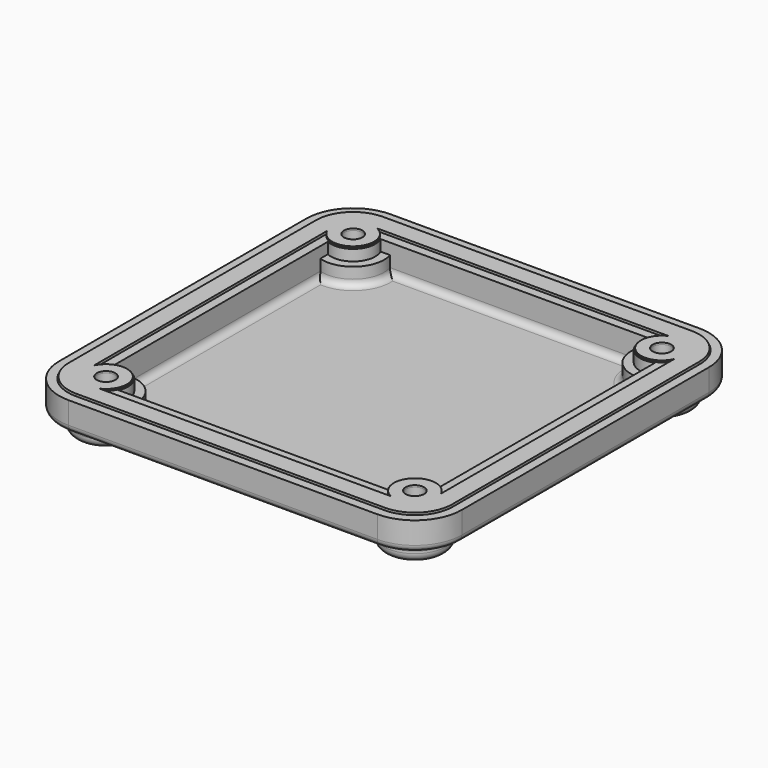
from build123d import *

# Parameters (mm, degrees)
F0_R           = 2.1
F1_DEPTH       = 6.5
F3_DEPTH       = 3.5
F4_R           = 2
F5_R           = 2.1
F6_DEPTH       = 4
F8_DEPTH       = 4
F9_R           = 1.5
F10_R          = 3.875
F11_DEPTH      = 6
F12_R          = 2
F14_DEPTH      = 3.3
F14_DEPTH_BACK = 0.4
F15_R          = 1.8
F16_R          = 4.75
F16_R_2        = 2.1
F17_DEPTH      = 0.4


with BuildPart() as f1:
    # F0 (on Top) → F1 (new body)
    with BuildSketch(Plane.XY):
        with BuildLine():
            Line((-35, -45.625), (35, -45.625))
            ThreePointArc((35, -45.625), (42.5130095501, -42.5130095501), (45.625, -35))
            Line((45.625, -35), (45.625, 35))
            ThreePointArc((45.625, 35), (42.5130095501, 42.5130095501), (35, 45.625))
            Line((35, 45.625), (-35, 45.625))
            ThreePointArc((-35, 45.625), (-42.5130095501, 42.5130095501), (-45.625, 35))
            Line((-45.625, 35), (-45.625, -35))
            ThreePointArc((-45.625, -35), (-42.5130095501, -42.5130095501), (-35, -45.625))
        make_face()
        with Locations((-35, -35)):
            Circle(F0_R, mode=Mode.SUBTRACT)
        with Locations((35, -35)):
            Circle(F0_R, mode=Mode.SUBTRACT)
        with Locations((-35, 35)):
            Circle(F0_R, mode=Mode.SUBTRACT)
        with BuildLine():
            ThreePointArc((-37.1, 30.4623794782), (-31.4644660941, 31.4644660941), (-30.4623794782, 37.1))
            Line((-30.4623794782, 37.1), (30.4623794782, 37.1))
            ThreePointArc((30.4623794782, 37.1), (31.4644660941, 31.4644660941), (37.1, 30.4623794782))
            Line((37.1, 30.4623794782), (37.1, -30.4623794782))
            ThreePointArc((37.1, -30.4623794782), (31.4644660941, -31.4644660941), (30.4623794782, -37.1))
            Line((30.4623794782, -37.1), (-30.4623794782, -37.1))
            ThreePointArc((-30.4623794782, -37.1), (-31.4644660941, -31.4644660941), (-37.1, -30.4623794782))
            Line((-37.1, -30.4623794782), (-37.1, 30.4623794782))
        make_face(mode=Mode.SUBTRACT)
        with Locations((35, 35)):
            Circle(F0_R, mode=Mode.SUBTRACT)
    extrude(amount=F1_DEPTH)

    # F2 (on face) → F3 (cut)
    with BuildSketch(Plane.XY.offset(6.5)):
        with BuildLine():
            Line((43.625, -35), (43.625, 35))
            ThreePointArc((43.625, 35), (41.0987959877, 41.0987959877), (35, 43.625))
            Line((35, 43.625), (-35, 43.625))
            ThreePointArc((-35, 43.625), (-41.0987959877, 41.0987959877), (-43.625, 35))
            Line((-43.625, 35), (-43.625, -35))
            ThreePointArc((-43.625, -35), (-41.0987959877, -41.0987959877), (-35, -43.625))
            Line((-35, -43.625), (35, -43.625))
            ThreePointArc((35, -43.625), (41.0987959877, -41.0987959877), (43.625, -35))
        make_face()
        with BuildLine():
            ThreePointArc((35, 39.125), (37.9168154724, 37.9168154724), (39.125, 35))
            Line((39.125, 35), (39.125, -35))
            ThreePointArc((39.125, -35), (37.9168154724, -37.9168154724), (35, -39.125))
            Line((35, -39.125), (-35, -39.125))
            ThreePointArc((-35, -39.125), (-37.9168154724, -37.9168154724), (-39.125, -35))
            Line((-39.125, -35), (-39.125, 35))
            ThreePointArc((-39.125, 35), (-37.9168154724, 37.9168154724), (-35, 39.125))
            Line((-35, 39.125), (35, 39.125))
        make_face(mode=Mode.SUBTRACT)
    extrude(amount=-F3_DEPTH, mode=Mode.SUBTRACT)

    # F4
    f4_edges = [f1.edges().sort_by_distance(p)[0] for p in [
        (43.625, 0, 3),
        (41.098796, 41.098796, 3),
        (0, 43.625, 3),
        (-41.098796, 41.098796, 3),
        (-43.625, 0, 3),
        (-41.098796, -41.098796, 3),
        (0, -43.625, 3),
        (41.098796, -41.098796, 3),
        (37.916815, 37.916815, 3),
        (39.125, 0, 3),
        (37.916815, -37.916815, 3),
        (0, -39.125, 3),
        (-37.916815, -37.916815, 3),
        (-39.125, 0, 3),
        (-37.916815, 37.916815, 3),
        (0, 39.125, 3),
    ]]
    fillet(f4_edges, radius=F4_R)

    # F5 (on face) → F6 (join)
    with BuildSketch(Plane(origin=(0, 0, 0), x_dir=(1, 0, 0), z_dir=(0, 0, -1))):
        with BuildLine():
            Line((30, 40), (-30, 40))
            ThreePointArc((-30, 40), (-40, 40), (-40, 30))
            Line((-40, 30), (-40, -30))
            ThreePointArc((-40, -30), (-40, -40), (-30, -40))
            Line((-30, -40), (30, -40))
            ThreePointArc((30, -40), (40, -40), (40, -30))
            Line((40, -30), (40, 30))
            ThreePointArc((40, 30), (40, 40), (30, 40))
        make_face()
        with Locations((-35, -35)):
            Circle(F5_R, mode=Mode.SUBTRACT)
        with Locations((35, -35)):
            Circle(F5_R, mode=Mode.SUBTRACT)
        with Locations((-35, 35)):
            Circle(F5_R, mode=Mode.SUBTRACT)
        with Locations((35, 35)):
            Circle(F5_R, mode=Mode.SUBTRACT)
    extrude(amount=F6_DEPTH)

    # F7 (on face) → F8 (join)
    with BuildSketch(Plane.XY):
        with BuildLine():
            Line((-30.4623794782, -37.1), (-28.3224255901, -37.1))
            ThreePointArc((-28.3224255901, -37.1), (-30.0502525317, -30.0502525317), (-37.1, -28.3224255901))
            Line((-37.1, -28.3224255901), (-37.1, -30.4623794782))
            ThreePointArc((-37.1, -30.4623794782), (-31.4644660941, -31.4644660941), (-30.4623794782, -37.1))
        make_face()
        with BuildLine():
            Line((37.1, -30.4623794782), (37.1, -28.3224255901))
            ThreePointArc((37.1, -28.3224255901), (30.0502525317, -30.0502525317), (28.3224255901, -37.1))
            Line((28.3224255901, -37.1), (30.4623794782, -37.1))
            ThreePointArc((30.4623794782, -37.1), (31.4644660941, -31.4644660941), (37.1, -30.4623794782))
        make_face()
        with BuildLine():
            Line((30.4623794782, 37.1), (28.3224255901, 37.1))
            ThreePointArc((28.3224255901, 37.1), (30.0502525317, 30.0502525317), (37.1, 28.3224255901))
            Line((37.1, 28.3224255901), (37.1, 30.4623794782))
            ThreePointArc((37.1, 30.4623794782), (31.4644660941, 31.4644660941), (30.4623794782, 37.1))
        make_face()
        with BuildLine():
            Line((-37.1, 30.4623794782), (-37.1, 28.3224255901))
            ThreePointArc((-37.1, 28.3224255901), (-30.0502525317, 30.0502525317), (-28.3224255901, 37.1))
            Line((-28.3224255901, 37.1), (-30.4623794782, 37.1))
            ThreePointArc((-30.4623794782, 37.1), (-31.4644660941, 31.4644660941), (-37.1, 30.4623794782))
        make_face()
    extrude(amount=F8_DEPTH)

    # F9
    f9_edges = [f1.edges().sort_by_distance(p)[0] for p in [
        (0, -37.1, 0),
        (30.050253, -30.050253, 0),
        (37.1, 0, 0),
        (30.050253, 30.050253, 0),
        (0, 37.1, 0),
        (-30.050253, 30.050253, 0),
        (-37.1, 0, 0),
        (-30.050253, -30.050253, 0),
        (0, -40, 0),
        (-40, -40, 0),
        (-40, 0, 0),
        (-40, 40, 0),
        (0, 40, 0),
        (40, 40, 0),
        (40, 0, 0),
        (40, -40, 0),
        (-42.51301, -42.51301, 0),
    ]]
    fillet(f9_edges, radius=F9_R)

    # F10 (on face) → F11 (cut)
    with BuildSketch(Plane(origin=(0, 0, -4), x_dir=(1, 0, 0), z_dir=(0, 0, -1))):
        with Locations((-35, 35)):
            Circle(F10_R)
        with Locations((-35, -35)):
            Circle(F10_R)
        with Locations((35, -35)):
            Circle(F10_R)
        with Locations((35, 35)):
            Circle(F10_R)
    extrude(amount=-F11_DEPTH, mode=Mode.SUBTRACT)

    # F12
    f12_edges = [f1.edges().sort_by_distance(p)[0] for p in [
        (-40, 0, -4),
        (-40, -40, -4),
        (0, -40, -4),
        (40, -40, -4),
        (40, 40, -4),
        (40, 0, -4),
        (0, 40, -4),
        (-40, 40, -4),
    ]]
    fillet(f12_edges, radius=F12_R)


with BuildPart() as f14:
    # F13 (on face) → F14 (new body, two sides)
    with BuildSketch(Plane.XY.offset(6.5)) as f14_sk:
        with BuildLine():
            Line((-43.425, 35), (-43.425, -35))
            ThreePointArc((-43.425, -35), (-40.9573746315, -40.9573746315), (-35, -43.425))
            Line((-35, -43.425), (35, -43.425))
            ThreePointArc((35, -43.425), (40.9573746315, -40.9573746315), (43.425, -35))
            Line((43.425, -35), (43.425, 35))
            ThreePointArc((43.425, 35), (40.9573746315, 40.9573746315), (35, 43.425))
            Line((35, 43.425), (-35, 43.425))
            ThreePointArc((-35, 43.425), (-40.9573746315, 40.9573746315), (-43.425, 35))
        make_face()
        with BuildLine():
            ThreePointArc((-35, -39.325), (-38.0582368286, -38.0582368286), (-39.325, -35))
            Line((-39.325, -35), (-39.325, 35))
            ThreePointArc((-39.325, 35), (-38.0582368286, 38.0582368286), (-35, 39.325))
            Line((-35, 39.325), (35, 39.325))
            ThreePointArc((35, 39.325), (38.0582368286, 38.0582368286), (39.325, 35))
            Line((39.325, 35), (39.325, -35))
            ThreePointArc((39.325, -35), (38.0582368286, -38.0582368286), (35, -39.325))
            Line((35, -39.325), (-35, -39.325))
        make_face(mode=Mode.SUBTRACT)
    extrude(amount=-F14_DEPTH)
    extrude(f14_sk.sketch, amount=F14_DEPTH_BACK)

    # F15
    f15_edges = [f14.edges().sort_by_distance(p)[0] for p in [
        (-43.425, 0, 3.2),
        (-40.957375, -40.957375, 3.2),
        (0, -43.425, 3.2),
        (40.957375, -40.957375, 3.2),
        (43.425, 0, 3.2),
        (40.957375, 40.957375, 3.2),
        (0, 43.425, 3.2),
        (-40.957375, 40.957375, 3.2),
        (-38.058237, -38.058237, 3.2),
        (-39.325, 0, 3.2),
        (-38.058237, 38.058237, 3.2),
        (0, 39.325, 3.2),
        (38.058237, 38.058237, 3.2),
        (39.325, 0, 3.2),
        (38.058237, -38.058237, 3.2),
        (0, -39.325, 3.2),
    ]]
    fillet(f15_edges, radius=F15_R)

    # F16 (on face) → F17 (join, through all)
    with BuildSketch(Plane.XY.offset(6.5)):
        with Locations((35, -35)):
            Circle(F16_R)
        with Locations((35, -35)):
            Circle(F16_R_2, mode=Mode.SUBTRACT)
        with Locations((35, 35)):
            Circle(F16_R)
        with Locations((35, 35)):
            Circle(F16_R_2, mode=Mode.SUBTRACT)
        with Locations((-35, 35)):
            Circle(F16_R)
        with Locations((-35, 35)):
            Circle(F16_R_2, mode=Mode.SUBTRACT)
        with Locations((-35, -35)):
            Circle(F16_R)
        with Locations((-35, -35)):
            Circle(F16_R_2, mode=Mode.SUBTRACT)
    extrude(amount=F17_DEPTH)


solid = Compound([f1.part, f14.part])
